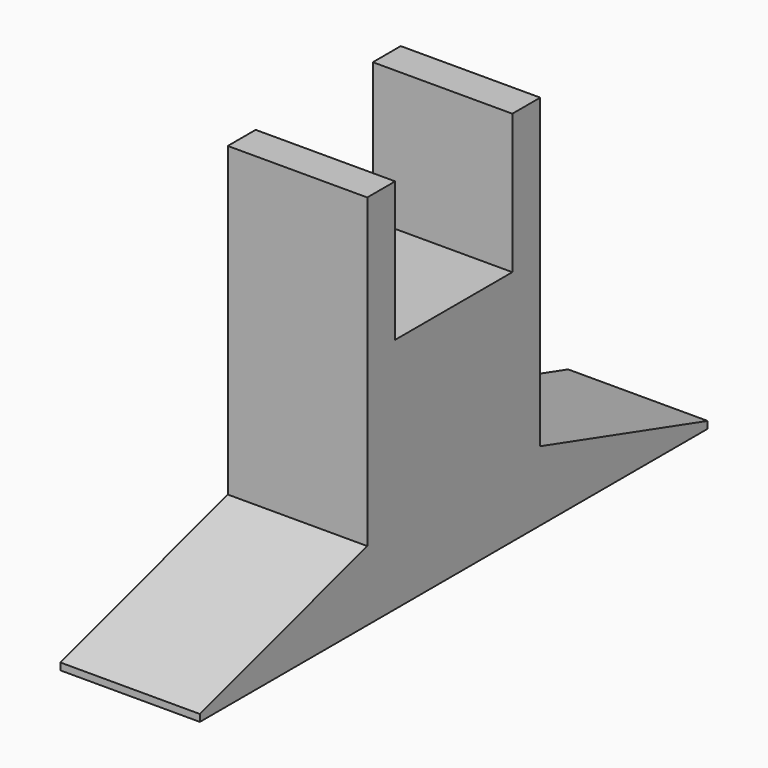
from build123d import *

# Parameters (mm, degrees)
F0_W     = 20
F0_H     = 31
F1_DEPTH = 34
F2_W     = 20
F2_H     = 5
F3_DEPTH = 20
F4_W     = 20
F4_H     = 10
F5_DEPTH = 30
F6_W     = 20
F6_H     = 10
F7_DEPTH = 30
F9_DEPTH = 20


with BuildPart() as f1:
    # F0 (on Top) → F1 (new body)
    with BuildSketch(Plane.XY):
        with Locations((10, 15.5)):
            Rectangle(F0_W, F0_H)
    extrude(amount=F1_DEPTH)

    # F2 (on face) → F3 (join)
    with BuildSketch(Plane.XY.offset(34)):
        with Locations((10, 28.5)):
            Rectangle(F2_W, F2_H)
        with Locations((10, 2.5)):
            Rectangle(F2_W, F2_H)
    extrude(amount=F3_DEPTH)

    # F4 (on face) → F5 (join)
    with BuildSketch(Plane.XZ):
        with Locations((10, 5)):
            Rectangle(F4_W, F4_H)
    extrude(amount=F5_DEPTH)

    # F6 (on face) → F7 (join)
    with BuildSketch(Plane(origin=(0, 31, 0), x_dir=(-1, 0, 0), z_dir=(0, 1, 0))):
        with Locations((-10, 5)):
            Rectangle(F6_W, F6_H)
    extrude(amount=F7_DEPTH)

    # F8 (on face) → F9 (cut)
    with BuildSketch(Plane.YZ.offset(20)):
        Polygon((-30, 1), (0, 10), (-30, 10), align=None)
        Polygon((31, 10), (61, 1), (61, 10), align=None)
    extrude(amount=-F9_DEPTH, mode=Mode.SUBTRACT)


solid = f1.part
